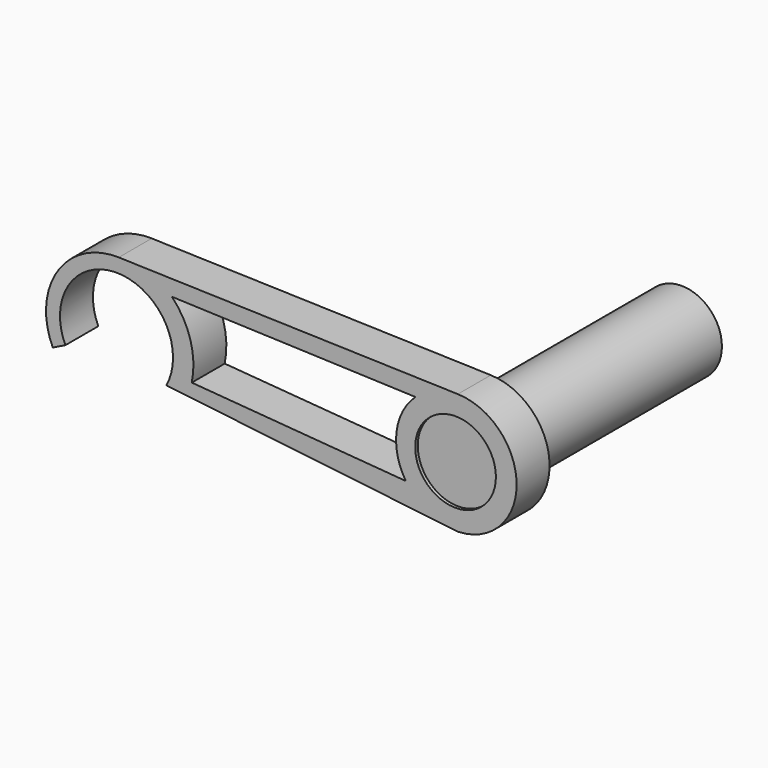
from build123d import *

# Parameters (mm, degrees)
F0_R     = 10
F1_DEPTH = 10.2
F3_START = -0.8
F2_R     = 10
F3_DEPTH = 69.2


with BuildPart() as f1:
    # F0 (on Front) → F1 (new body)
    with BuildSketch(Plane.XZ):
        with BuildLine():
            Line((54.2613800827, 15), (-29.7518782335, 17.5))
            ThreePointArc((-29.7518782335, 17.5), (-44.9195605683, 9.5910681516), (-46.1050592151, -7.4736434883))
            Line((-46.1050592151, -7.4736434883), (-42.9883086577, -5.9563569776))
            ThreePointArc((-42.9883086577, -5.9563569776), (-29.9633810019, 13.9954931213), (-17.9673316068, -6.5913925518))
            Line((-17.9673316068, -6.5913925518), (54.2613800827, -15))
            ThreePointArc((54.2613800827, -15), (68.8216616793, 0), (54.2613800827, 15))
        make_face()
        with Locations((53.6814116058, 0)):
            Circle(F0_R, mode=Mode.SUBTRACT)
        with BuildLine():
            ThreePointArc((-11.6661642238, -3.9256985971), (-11.9953927915, 5.2492168736), (-16.5848323461, 13.2006010246))
            Line((-16.5848323461, 13.2006010246), (43.7612123787, 10.9605947509))
            ThreePointArc((43.7612123787, 10.9605947509), (39.057132376, 1.8488968028), (41.3680460204, -8.1416530468))
            Line((41.3680460204, -8.1416530468), (-11.6661642238, -3.9256985971))
        make_face(mode=Mode.SUBTRACT)
    extrude(amount=F1_DEPTH)


with BuildPart() as f3:
    # F2 (on face) → F3 (new body)
    with BuildSketch(Plane.XZ.offset(10.2).offset(F3_START)):
        with Locations((53.6814116058, 0)):
            Circle(F2_R)
    extrude(amount=-F3_DEPTH)


solid = Compound([f1.part, f3.part])
